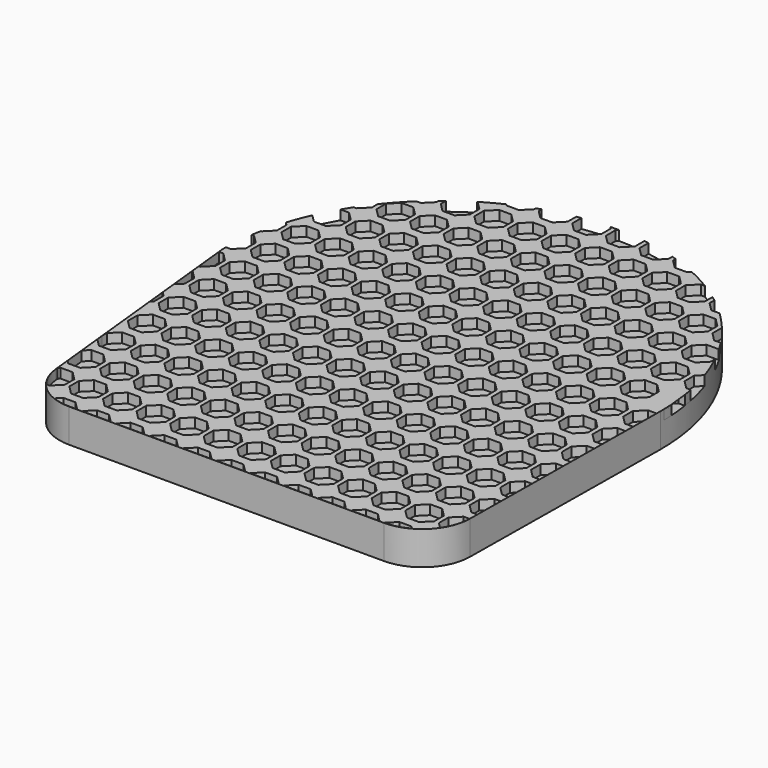
from build123d import *

# Parameters (mm, degrees)
F1_DEPTH = 6.35
F3_DEPTH = 8.89


with BuildPart() as f1:
    # F0 (on Top) → F1 (new body)
    with BuildSketch(Plane.XY):
        with BuildLine():
            ThreePointArc((-51.3827269101, -50.5349306428), (-47.2529904273, -58.6521035955), (-38.7512345327, -61.9175847043))
            Line((-38.7512345327, -61.9175847043), (44.5720515409, -61.9175847043))
            ThreePointArc((44.5720515409, -61.9175847043), (53.5004760183, -58.2493750224), (57.271210242, -49.3637636572))
            Line((57.271210242, -49.3637636572), (57.9866241348, 12.7871436998))
            ThreePointArc((57.9866241348, 12.7871436998), (0, 70.7737678347), (-57.9866241348, 12.7871436998))
            Line((-57.9866241348, 12.7871436998), (-51.3827269101, -50.5349306428))
        make_face()
        with BuildLine():
            ThreePointArc((-51.3827269101, -50.5349306428), (-47.2529904273, -58.6521035955), (-38.7512345327, -61.9175847043))
            Line((-38.7512345327, -61.9175847043), (44.5720515409, -61.9175847043))
            ThreePointArc((44.5720515409, -61.9175847043), (53.5004760183, -58.2493750224), (57.271210242, -49.3637636572))
            Line((57.271210242, -49.3637636572), (57.9866241348, 12.7871436998))
            ThreePointArc((57.9866241348, 12.7871436998), (0, 70.7737678347), (-57.9866241348, 12.7871436998))
            Line((-57.9866241348, 12.7871436998), (-51.3827269101, -50.5349306428))
        make_face()
    extrude(amount=F1_DEPTH)

    # F2 (on face) → F3 (join)
    with BuildSketch(Plane.XY):
        with BuildLine():
            Line((-56.6928987021, 14.0195400659), (-57.973526525, 14.0195400659))
            ThreePointArc((-57.973526525, 14.0195400659), (-57.9833496399, 13.4033766814), (-57.9866241348, 12.7871436998))
            Line((-57.9866241348, 12.7871436998), (-51.3827269101, -50.5349306428))
            ThreePointArc((-51.3827269101, -50.5349306428), (-47.2529904273, -58.6521035955), (-38.7512345327, -61.9175847043))
            Line((-38.7512345327, -61.9175847043), (44.5720515409, -61.9175847043))
            ThreePointArc((44.5720515409, -61.9175847043), (53.5004760183, -58.2493750224), (57.271210242, -49.3637636572))
            Line((57.271210242, -49.3637636572), (57.9866241348, 12.7871436998))
            ThreePointArc((57.9866241348, 12.7871436998), (57.9554946576, 14.6869377811), (57.8621396488, 16.5846920955))
            ThreePointArc((57.8621396488, 16.5846920955), (57.9303192963, 15.3027136717), (57.9701017166, 14.0195400659))
            Line((57.9701017166, 14.0195400659), (55.7021012975, 14.0195400659))
            Line((55.7021012975, 14.0195400659), (53.4570372671, 16.2646040963))
            Line((53.4570372671, 16.2646040963), (53.4570372671, 19.4396040962))
            Line((53.4570372671, 19.4396040962), (55.7021012975, 21.6846681264))
            Line((55.7021012975, 21.6846681264), (57.2999357559, 21.6846681264))
            ThreePointArc((57.2999357559, 21.6846681264), (57.0918487953, 22.9345265985), (56.8565025621, 24.1795400658))
            Line((56.8565025621, 24.1795400658), (55.7021012975, 24.1795400658))
            Line((55.7021012975, 24.1795400658), (53.4570372671, 26.4246040962))
            Line((53.4570372671, 26.4246040962), (53.4570372671, 29.599604096))
            Line((53.4570372671, 29.599604096), (55.0035920623, 31.1461588912))
            ThreePointArc((55.0035920623, 31.1461588912), (53.7263722858, 34.6028605014), (52.2321653279, 37.9714539685))
            Line((52.2321653279, 37.9714539685), (52.2321653279, 36.5846040959))
            Line((52.2321653279, 36.5846040959), (49.9871012975, 34.3395400657))
            Line((49.9871012975, 34.3395400657), (46.8121012975, 34.3395400657))
            Line((46.8121012975, 34.3395400657), (44.5670372672, 36.5846040961))
            Line((44.5670372672, 36.5846040961), (44.5670372672, 39.7596040959))
            Line((44.5670372672, 39.7596040959), (46.8121012975, 42.0046681262))
            Line((46.8121012975, 42.0046681262), (49.9871012975, 42.0046681262))
            Line((49.9871012975, 42.0046681262), (50.2268648648, 41.764904559))
            ThreePointArc((50.2268648648, 41.764904559), (49.4056571773, 43.1438500005), (48.5466012744, 44.4995400655))
            Line((48.5466012744, 44.4995400655), (46.8121012975, 44.4995400655))
            Line((46.8121012975, 44.4995400655), (44.5670372672, 46.744604096))
            Line((44.5670372672, 46.744604096), (44.5670372672, 49.8846876587))
            ThreePointArc((44.5670372672, 49.8846876587), (42.4078863454, 52.3348333197), (40.1142244242, 54.6595400654))
            Line((40.1142244242, 54.6595400654), (37.9221012975, 54.6595400654))
            Line((37.9221012975, 54.6595400654), (35.6770372672, 56.9046040958))
            Line((35.6770372672, 56.9046040958), (35.6770372672, 58.4992601504))
            ThreePointArc((35.6770372672, 58.4992601504), (35.0676851002, 58.9683740891), (34.452165328, 59.4293658035))
            Line((34.452165328, 59.4293658035), (34.452165328, 56.9046040957))
            Line((34.452165328, 56.9046040957), (32.2071012976, 54.6595400654))
            Line((32.2071012976, 54.6595400654), (29.0321012976, 54.6595400654))
            Line((29.0321012976, 54.6595400654), (26.7870372672, 56.9046040958))
            Line((26.7870372672, 56.9046040958), (26.7870372672, 60.0796040957))
            Line((26.7870372672, 60.0796040957), (29.0321012976, 62.324668126))
            Line((29.0321012976, 62.324668126), (30.1410393365, 62.324668126))
            ThreePointArc((30.1410393365, 62.324668126), (27.1430924041, 64.028739238), (24.0491519496, 65.5515907173))
            Line((24.0491519496, 65.5515907173), (23.3171012976, 64.8195400653))
            Line((23.3171012976, 64.8195400653), (20.1421012976, 64.8195400653))
            Line((20.1421012976, 64.8195400653), (17.8970372672, 67.0646040957))
            Line((17.8970372672, 67.0646040957), (17.8970372672, 67.9427838068))
            ThreePointArc((17.8970372672, 67.9427838068), (17.2856594564, 68.1374332719), (16.672165328, 68.3253060914))
            Line((16.672165328, 68.3253060914), (16.672165328, 67.0646040956))
            Line((16.672165328, 67.0646040956), (14.4271012976, 64.8195400653))
            Line((14.4271012976, 64.8195400653), (11.2521012976, 64.8195400653))
            Line((11.2521012976, 64.8195400653), (9.0070372673, 67.0646040957))
            Line((9.0070372673, 67.0646040957), (9.0070372673, 70.0699671133))
            ThreePointArc((9.0070372673, 70.0699671133), (8.3895462338, 70.1636553796), (7.7710819416, 70.250687482))
            Line((7.7710819416, 70.250687482), (7.7821653281, 70.2396040955))
            Line((7.7821653281, 70.2396040955), (7.7821653281, 67.0646040956))
            Line((7.7821653281, 67.0646040956), (5.5371012977, 64.8195400653))
            Line((5.5371012977, 64.8195400653), (2.3621012977, 64.8195400653))
            Line((2.3621012977, 64.8195400653), (0.1170372673, 67.0646040957))
            Line((0.1170372673, 67.0646040957), (0.1170372673, 70.2396040956))
            Line((0.1170372673, 70.2396040956), (0.6475848346, 70.7701516628))
            ThreePointArc((0.6475848346, 70.7701516628), (-0.4859914005, 70.7717312289), (-1.6193819084, 70.751151332))
            Line((-1.6193819084, 70.751151332), (-1.1078346719, 70.2396040955))
            Line((-1.1078346719, 70.2396040955), (-1.1078346719, 67.0646040956))
            Line((-1.1078346719, 67.0646040956), (-3.3528987023, 64.8195400653))
            Line((-3.3528987023, 64.8195400653), (-6.5278987023, 64.8195400653))
            Line((-6.5278987023, 64.8195400653), (-8.7729627327, 67.0646040957))
            Line((-8.7729627327, 67.0646040957), (-8.7729627327, 70.1062827674))
            ThreePointArc((-8.7729627327, 70.1062827674), (-9.3859362982, 70.00910433), (-9.9978346719, 69.905370917))
            Line((-9.9978346719, 69.905370917), (-9.9978346719, 67.0646040956))
            Line((-9.9978346719, 67.0646040956), (-12.2428987023, 64.8195400653))
            Line((-12.2428987023, 64.8195400653), (-15.4178987023, 64.8195400653))
            Line((-15.4178987023, 64.8195400653), (-17.6629627326, 67.0646040957))
            Line((-17.6629627326, 67.0646040957), (-17.6629627326, 68.0181886479))
            ThreePointArc((-17.6629627326, 68.0181886479), (-18.2765305367, 67.8181986606), (-18.8878346718, 67.611392714))
            Line((-18.8878346718, 67.611392714), (-18.8878346718, 67.0646040956))
            Line((-18.8878346718, 67.0646040956), (-21.1328987023, 64.8195400653))
            Line((-21.1328987023, 64.8195400653), (-24.3078987023, 64.8195400653))
            Line((-24.3078987023, 64.8195400653), (-24.7261217819, 65.237763145))
            ThreePointArc((-24.7261217819, 65.237763145), (-27.4722200221, 63.8530394191), (-30.1410393365, 62.324668126))
            Line((-30.1410393365, 62.324668126), (-30.0228987022, 62.324668126))
            Line((-30.0228987022, 62.324668126), (-27.7778346718, 60.0796040957))
            Line((-27.7778346718, 60.0796040957), (-27.7778346718, 56.9046040957))
            Line((-27.7778346718, 56.9046040957), (-30.0228987022, 54.6595400654))
            Line((-30.0228987022, 54.6595400654), (-33.1978987022, 54.6595400654))
            Line((-33.1978987022, 54.6595400654), (-35.4429627326, 56.9046040958))
            Line((-35.4429627326, 56.9046040958), (-35.4429627326, 58.6809882903))
            ThreePointArc((-35.4429627326, 58.6809882903), (-36.0586780378, 58.1988196953), (-36.6678346718, 57.708391223))
            Line((-36.6678346718, 57.708391223), (-36.6678346718, 56.9046040957))
            Line((-36.6678346718, 56.9046040957), (-38.9128987022, 54.6595400654))
            Line((-38.9128987022, 54.6595400654), (-40.1142244242, 54.6595400654))
            ThreePointArc((-40.1142244242, 54.6595400654), (-42.9409024355, 51.7554317887), (-45.5578346717, 48.6609820584))
            Line((-45.5578346717, 48.6609820584), (-45.5578346717, 46.7446040958))
            Line((-45.5578346717, 46.7446040958), (-47.8028987022, 44.4995400655))
            Line((-47.8028987022, 44.4995400655), (-48.5466012744, 44.4995400655))
            ThreePointArc((-48.5466012744, 44.4995400655), (-49.3329602322, 43.2618481821), (-50.0877714113, 42.0046681262))
            Line((-50.0877714113, 42.0046681262), (-47.8028987021, 42.0046681262))
            Line((-47.8028987021, 42.0046681262), (-45.5578346717, 39.7596040959))
            Line((-45.5578346717, 39.7596040959), (-45.5578346717, 36.5846040959))
            Line((-45.5578346717, 36.5846040959), (-47.8028987022, 34.3395400657))
            Line((-47.8028987022, 34.3395400657), (-50.9778987022, 34.3395400657))
            Line((-50.9778987022, 34.3395400657), (-52.9849243798, 36.3465657433))
            ThreePointArc((-52.9849243798, 36.3465657433), (-54.1977707452, 33.4038899224), (-55.2473308371, 30.3991002614))
            Line((-55.2473308371, 30.3991002614), (-54.4478346717, 29.599604096))
            Line((-54.4478346717, 29.599604096), (-54.4478346717, 26.424604096))
            Line((-54.4478346717, 26.424604096), (-56.6928987021, 24.1795400658))
            Line((-56.6928987021, 24.1795400658), (-56.8565025621, 24.1795400658))
            ThreePointArc((-56.8565025621, 24.1795400658), (-57.0918487953, 22.9345265985), (-57.2999357559, 21.6846681264))
            Line((-57.2999357559, 21.6846681264), (-56.6928987021, 21.6846681264))
            Line((-56.6928987021, 21.6846681264), (-54.4478346717, 19.4396040961))
            Line((-54.4478346717, 19.4396040961), (-54.4478346717, 16.2646040962))
            Line((-54.4478346717, 16.2646040962), (-56.6928987021, 14.0195400659))
        make_face()
        with BuildLine():
            Line((-47.8028987022, -57.1004599333), (-48.6520752311, -57.1004599333))
            ThreePointArc((-48.6520752311, -57.1004599333), (-50.4993935731, -53.9765670107), (-51.3877411835, -50.4577418415))
            Line((-51.3877411835, -50.4577418415), (-51.445592832, -49.9030260026))
            Line((-51.445592832, -49.9030260026), (-50.9778987021, -49.4353318727))
            Line((-50.9778987021, -49.4353318727), (-47.8028987021, -49.4353318727))
            Line((-47.8028987021, -49.4353318727), (-45.5578346717, -51.6803959031))
            Line((-45.5578346717, -51.6803959031), (-45.5578346717, -54.855395903))
            Line((-45.5578346717, -54.855395903), (-47.8028987022, -57.1004599333))
        make_face(mode=Mode.SUBTRACT)
        with BuildLine():
            ThreePointArc((-38.7562488062, -61.8403959029), (-41.1396590776, -61.6147438008), (-43.4383730439, -60.9458062143))
            Line((-43.4383730439, -60.9458062143), (-42.0878987022, -59.5953318726))
            Line((-42.0878987022, -59.5953318726), (-38.9128987022, -59.5953318726))
            Line((-38.9128987022, -59.5953318726), (-36.6678346718, -61.8403959029))
            Line((-36.6678346718, -61.8403959029), (-38.7562488062, -61.8403959029))
        make_face(mode=Mode.SUBTRACT)
        Polygon((-27.7778346718, -61.8403959028), (-35.4429627326, -61.8403959028), (-33.1978987022, -59.5953318726), (-30.0228987022, -59.5953318726), align=None, mode=Mode.SUBTRACT)
        Polygon((-38.9128987022, -57.1004599333), (-42.0878987022, -57.1004599333), (-44.3329627325, -54.8553959029), (-44.3329627325, -51.680395903), (-42.0878987022, -49.4353318727), (-38.9128987022, -49.4353318727), (-36.6678346718, -51.6803959031), (-36.6678346718, -54.855395903), align=None, mode=Mode.SUBTRACT)
        Polygon((-30.0228987022, -57.1004599333), (-33.1978987022, -57.1004599333), (-35.4429627326, -54.8553959029), (-35.4429627326, -51.680395903), (-33.1978987022, -49.4353318727), (-30.0228987022, -49.4353318727), (-27.7778346718, -51.6803959031), (-27.7778346718, -54.855395903), align=None, mode=Mode.SUBTRACT)
        Polygon((-47.8028987022, -46.9404599334), (-50.9778987022, -46.9404599334), (-51.8449901145, -46.073368521), (-52.4051160864, -40.7025492571), (-50.9778987021, -39.2753318728), (-47.8028987021, -39.2753318728), (-45.5578346717, -41.5203959032), (-45.5578346717, -44.6953959031), align=None, mode=Mode.SUBTRACT)
        Polygon((-47.8028987022, -36.7804599335), (-50.9778987022, -36.7804599335), (-53.0279547163, -34.7304039193), (-53.2229627325, -32.8605516672), (-53.2229627325, -31.3603959032), (-50.9778987021, -29.115331873), (-47.8028987021, -29.115331873), (-45.5578346717, -31.3603959033), (-45.5578346717, -34.5353959032), align=None, mode=Mode.SUBTRACT)
        Polygon((-38.9128987022, -46.9404599334), (-42.0878987022, -46.9404599334), (-44.3329627325, -44.695395903), (-44.3329627325, -41.5203959031), (-42.0878987022, -39.2753318728), (-38.9128987022, -39.2753318728), (-36.6678346718, -41.5203959032), (-36.6678346718, -44.6953959031), align=None, mode=Mode.SUBTRACT)
        Polygon((-30.0228987022, -46.9404599334), (-33.1978987022, -46.9404599334), (-35.4429627326, -44.695395903), (-35.4429627326, -41.5203959031), (-33.1978987022, -39.2753318728), (-30.0228987022, -39.2753318728), (-27.7778346718, -41.5203959032), (-27.7778346718, -44.6953959031), align=None, mode=Mode.SUBTRACT)
        Polygon((-38.9128987022, -36.7804599335), (-42.0878987022, -36.7804599335), (-44.3329627325, -34.5353959031), (-44.3329627325, -31.3603959032), (-42.0878987022, -29.115331873), (-38.9128987022, -29.115331873), (-36.6678346718, -31.3603959033), (-36.6678346718, -34.5353959032), align=None, mode=Mode.SUBTRACT)
        Polygon((-30.0228987022, -36.7804599335), (-33.1978987022, -36.7804599335), (-35.4429627326, -34.5353959031), (-35.4429627326, -31.3603959032), (-33.1978987022, -29.115331873), (-30.0228987022, -29.115331873), (-27.7778346718, -31.3603959033), (-27.7778346718, -34.5353959032), align=None, mode=Mode.SUBTRACT)
        Polygon((-18.8878346718, -61.8403959028), (-26.5529627326, -61.8403959028), (-24.3078987022, -59.5953318725), (-21.1328987022, -59.5953318725), align=None, mode=Mode.SUBTRACT)
        Polygon((-21.1328987023, -57.1004599333), (-24.3078987023, -57.1004599333), (-26.5529627326, -54.8553959029), (-26.5529627326, -51.680395903), (-24.3078987022, -49.4353318727), (-21.1328987022, -49.4353318727), (-18.8878346718, -51.6803959031), (-18.8878346718, -54.855395903), align=None, mode=Mode.SUBTRACT)
        Polygon((-9.9978346719, -61.8403959028), (-17.6629627326, -61.8403959028), (-15.4178987023, -59.5953318725), (-12.2428987023, -59.5953318725), align=None, mode=Mode.SUBTRACT)
        Polygon((-1.1078346719, -61.8403959028), (-8.7729627327, -61.8403959028), (-6.5278987023, -59.5953318725), (-3.3528987023, -59.5953318725), align=None, mode=Mode.SUBTRACT)
        Polygon((-12.2428987023, -57.1004599333), (-15.4178987023, -57.1004599333), (-17.6629627326, -54.8553959029), (-17.6629627326, -51.680395903), (-15.4178987023, -49.4353318727), (-12.2428987023, -49.4353318727), (-9.9978346719, -51.6803959031), (-9.9978346719, -54.855395903), align=None, mode=Mode.SUBTRACT)
        Polygon((-3.3528987023, -57.1004599333), (-6.5278987023, -57.1004599333), (-8.7729627327, -54.8553959029), (-8.7729627327, -51.680395903), (-6.5278987023, -49.4353318727), (-3.3528987023, -49.4353318727), (-1.1078346719, -51.6803959031), (-1.1078346719, -54.855395903), align=None, mode=Mode.SUBTRACT)
        Polygon((-21.1328987023, -46.9404599334), (-24.3078987023, -46.9404599334), (-26.5529627326, -44.695395903), (-26.5529627326, -41.5203959031), (-24.3078987022, -39.2753318728), (-21.1328987022, -39.2753318728), (-18.8878346718, -41.5203959032), (-18.8878346718, -44.6953959031), align=None, mode=Mode.SUBTRACT)
        Polygon((-21.1328987023, -36.7804599335), (-24.3078987023, -36.7804599335), (-26.5529627326, -34.5353959031), (-26.5529627326, -31.3603959032), (-24.3078987022, -29.115331873), (-21.1328987022, -29.115331873), (-18.8878346718, -31.3603959033), (-18.8878346718, -34.5353959032), align=None, mode=Mode.SUBTRACT)
        Polygon((-12.2428987023, -46.9404599334), (-15.4178987023, -46.9404599334), (-17.6629627326, -44.695395903), (-17.6629627326, -41.5203959031), (-15.4178987023, -39.2753318728), (-12.2428987023, -39.2753318728), (-9.9978346719, -41.5203959032), (-9.9978346719, -44.6953959031), align=None, mode=Mode.SUBTRACT)
        Polygon((-3.3528987023, -46.9404599334), (-6.5278987023, -46.9404599334), (-8.7729627327, -44.695395903), (-8.7729627327, -41.5203959031), (-6.5278987023, -39.2753318728), (-3.3528987023, -39.2753318728), (-1.1078346719, -41.5203959032), (-1.1078346719, -44.6953959031), align=None, mode=Mode.SUBTRACT)
        Polygon((-12.2428987023, -36.7804599335), (-15.4178987023, -36.7804599335), (-17.6629627326, -34.5353959031), (-17.6629627326, -31.3603959032), (-15.4178987023, -29.115331873), (-12.2428987023, -29.115331873), (-9.9978346719, -31.3603959033), (-9.9978346719, -34.5353959032), align=None, mode=Mode.SUBTRACT)
        Polygon((-3.3528987023, -36.7804599335), (-6.5278987023, -36.7804599335), (-8.7729627327, -34.5353959031), (-8.7729627327, -31.3603959032), (-6.5278987023, -29.115331873), (-3.3528987023, -29.115331873), (-1.1078346719, -31.3603959033), (-1.1078346719, -34.5353959032), align=None, mode=Mode.SUBTRACT)
        Polygon((-47.8028987022, -26.6204599336), (-50.9778987022, -26.6204599336), (-53.2229627325, -24.3753959032), (-53.2229627325, -21.2003959034), (-50.9778987021, -18.9553318731), (-47.8028987021, -18.9553318731), (-45.5578346717, -21.2003959034), (-45.5578346717, -24.3753959034), align=None, mode=Mode.SUBTRACT)
        Polygon((-55.0995132883, -14.86707452), (-55.6209442018, -9.8672863735), (-54.4478346717, -11.0403959035), (-54.4478346717, -14.2153959035), align=None, mode=Mode.SUBTRACT)
        Polygon((-47.8028987022, -16.4604599338), (-50.9778987022, -16.4604599338), (-53.2229627325, -14.2153959033), (-53.2229627325, -11.0403959035), (-50.9778987021, -8.7953318732), (-47.8028987021, -8.7953318732), (-45.5578346717, -11.0403959035), (-45.5578346717, -14.2153959035), align=None, mode=Mode.SUBTRACT)
        Polygon((-38.9128987022, -26.6204599336), (-42.0878987022, -26.6204599336), (-44.3329627325, -24.3753959032), (-44.3329627325, -21.2003959034), (-42.0878987022, -18.9553318731), (-38.9128987022, -18.9553318731), (-36.6678346718, -21.2003959034), (-36.6678346718, -24.3753959034), align=None, mode=Mode.SUBTRACT)
        Polygon((-30.0228987022, -26.6204599336), (-33.1978987022, -26.6204599336), (-35.4429627326, -24.3753959032), (-35.4429627326, -21.2003959034), (-33.1978987022, -18.9553318731), (-30.0228987022, -18.9553318731), (-27.7778346718, -21.2003959034), (-27.7778346718, -24.3753959034), align=None, mode=Mode.SUBTRACT)
        Polygon((-38.9128987022, -16.4604599338), (-42.0878987022, -16.4604599338), (-44.3329627325, -14.2153959033), (-44.3329627325, -11.0403959035), (-42.0878987022, -8.7953318732), (-38.9128987022, -8.7953318732), (-36.6678346718, -11.0403959035), (-36.6678346718, -14.2153959035), align=None, mode=Mode.SUBTRACT)
        Polygon((-30.0228987022, -16.4604599338), (-33.1978987022, -16.4604599338), (-35.4429627326, -14.2153959033), (-35.4429627326, -11.0403959035), (-33.1978987022, -8.7953318732), (-30.0228987022, -8.7953318732), (-27.7778346718, -11.0403959035), (-27.7778346718, -14.2153959035), align=None, mode=Mode.SUBTRACT)
        Polygon((-56.7923314933, 1.3646681267), (-56.6928987021, 1.3646681267), (-54.4478346717, -0.8803959036), (-54.4478346717, -4.0553959036), (-56.0590365427, -5.6665977745), align=None, mode=Mode.SUBTRACT)
        Polygon((-47.8028987022, -6.3004599339), (-50.9778987022, -6.3004599339), (-53.2229627325, -4.0553959035), (-53.2229627325, -0.8803959036), (-50.9778987021, 1.3646681267), (-47.8028987021, 1.3646681267), (-45.5578346717, -0.8803959036), (-45.5578346717, -4.0553959036), align=None, mode=Mode.SUBTRACT)
        Polygon((-38.9128987022, -6.3004599339), (-42.0878987022, -6.3004599339), (-44.3329627325, -4.0553959035), (-44.3329627325, -0.8803959036), (-42.0878987022, 1.3646681267), (-38.9128987022, 1.3646681267), (-36.6678346718, -0.8803959036), (-36.6678346718, -4.0553959036), align=None, mode=Mode.SUBTRACT)
        Polygon((-30.0228987022, -6.3004599339), (-33.1978987022, -6.3004599339), (-35.4429627326, -4.0553959035), (-35.4429627326, -0.8803959036), (-33.1978987022, 1.3646681267), (-30.0228987022, 1.3646681267), (-27.7778346718, -0.8803959036), (-27.7778346718, -4.0553959036), align=None, mode=Mode.SUBTRACT)
        Polygon((-21.1328987023, -26.6204599336), (-24.3078987023, -26.6204599336), (-26.5529627326, -24.3753959032), (-26.5529627326, -21.2003959034), (-24.3078987022, -18.9553318731), (-21.1328987022, -18.9553318731), (-18.8878346718, -21.2003959034), (-18.8878346718, -24.3753959034), align=None, mode=Mode.SUBTRACT)
        Polygon((-21.1328987023, -16.4604599338), (-24.3078987023, -16.4604599338), (-26.5529627326, -14.2153959033), (-26.5529627326, -11.0403959035), (-24.3078987022, -8.7953318732), (-21.1328987022, -8.7953318732), (-18.8878346718, -11.0403959035), (-18.8878346718, -14.2153959035), align=None, mode=Mode.SUBTRACT)
        Polygon((-12.2428987023, -26.6204599336), (-15.4178987023, -26.6204599336), (-17.6629627326, -24.3753959032), (-17.6629627326, -21.2003959034), (-15.4178987023, -18.9553318731), (-12.2428987023, -18.9553318731), (-9.9978346719, -21.2003959034), (-9.9978346719, -24.3753959034), align=None, mode=Mode.SUBTRACT)
        Polygon((-3.3528987023, -26.6204599336), (-6.5278987023, -26.6204599336), (-8.7729627327, -24.3753959032), (-8.7729627327, -21.2003959034), (-6.5278987023, -18.9553318731), (-3.3528987023, -18.9553318731), (-1.1078346719, -21.2003959034), (-1.1078346719, -24.3753959034), align=None, mode=Mode.SUBTRACT)
        Polygon((-12.2428987023, -16.4604599338), (-15.4178987023, -16.4604599338), (-17.6629627326, -14.2153959033), (-17.6629627326, -11.0403959035), (-15.4178987023, -8.7953318732), (-12.2428987023, -8.7953318732), (-9.9978346719, -11.0403959035), (-9.9978346719, -14.2153959035), align=None, mode=Mode.SUBTRACT)
        Polygon((-3.3528987023, -16.4604599338), (-6.5278987023, -16.4604599338), (-8.7729627327, -14.2153959033), (-8.7729627327, -11.0403959035), (-6.5278987023, -8.7953318732), (-3.3528987023, -8.7953318732), (-1.1078346719, -11.0403959035), (-1.1078346719, -14.2153959035), align=None, mode=Mode.SUBTRACT)
        Polygon((-21.1328987023, -6.3004599339), (-24.3078987023, -6.3004599339), (-26.5529627326, -4.0553959035), (-26.5529627326, -0.8803959036), (-24.3078987022, 1.3646681267), (-21.1328987022, 1.3646681267), (-18.8878346718, -0.8803959036), (-18.8878346718, -4.0553959036), align=None, mode=Mode.SUBTRACT)
        Polygon((-12.2428987023, -6.3004599339), (-15.4178987023, -6.3004599339), (-17.6629627326, -4.0553959035), (-17.6629627326, -0.8803959036), (-15.4178987023, 1.3646681267), (-12.2428987023, 1.3646681267), (-9.9978346719, -0.8803959036), (-9.9978346719, -4.0553959036), align=None, mode=Mode.SUBTRACT)
        Polygon((-3.3528987023, -6.3004599339), (-6.5278987023, -6.3004599339), (-8.7729627327, -4.0553959035), (-8.7729627327, -0.8803959036), (-6.5278987023, 1.3646681267), (-3.3528987023, 1.3646681267), (-1.1078346719, -0.8803959036), (-1.1078346719, -4.0553959036), align=None, mode=Mode.SUBTRACT)
        Polygon((7.7821653281, -61.8403959027), (0.1170372673, -61.8403959028), (2.3621012977, -59.5953318725), (5.5371012977, -59.5953318725), align=None, mode=Mode.SUBTRACT)
        Polygon((16.672165328, -61.8403959027), (9.0070372673, -61.8403959027), (11.2521012977, -59.5953318724), (14.4271012977, -59.5953318724), align=None, mode=Mode.SUBTRACT)
        Polygon((5.5371012977, -57.1004599333), (2.3621012977, -57.1004599333), (0.1170372673, -54.8553959029), (0.1170372673, -51.680395903), (2.3621012977, -49.4353318727), (5.5371012977, -49.4353318727), (7.7821653281, -51.6803959031), (7.7821653281, -54.855395903), align=None, mode=Mode.SUBTRACT)
        Polygon((14.4271012976, -57.1004599333), (11.2521012976, -57.1004599333), (9.0070372673, -54.8553959029), (9.0070372673, -51.680395903), (11.2521012977, -49.4353318727), (14.4271012977, -49.4353318727), (16.672165328, -51.6803959031), (16.672165328, -54.855395903), align=None, mode=Mode.SUBTRACT)
        Polygon((25.562165328, -61.8403959027), (17.8970372672, -61.8403959027), (20.1421012976, -59.5953318724), (23.3171012976, -59.5953318724), align=None, mode=Mode.SUBTRACT)
        Polygon((23.3171012976, -57.1004599333), (20.1421012976, -57.1004599333), (17.8970372672, -54.8553959029), (17.8970372672, -51.680395903), (20.1421012976, -49.4353318727), (23.3171012976, -49.4353318727), (25.562165328, -51.6803959031), (25.562165328, -54.855395903), align=None, mode=Mode.SUBTRACT)
        Polygon((5.5371012977, -46.9404599334), (2.3621012977, -46.9404599334), (0.1170372673, -44.695395903), (0.1170372673, -41.5203959031), (2.3621012977, -39.2753318728), (5.5371012977, -39.2753318728), (7.7821653281, -41.5203959032), (7.7821653281, -44.6953959031), align=None, mode=Mode.SUBTRACT)
        Polygon((14.4271012976, -46.9404599334), (11.2521012976, -46.9404599334), (9.0070372673, -44.695395903), (9.0070372673, -41.5203959031), (11.2521012977, -39.2753318728), (14.4271012977, -39.2753318728), (16.672165328, -41.5203959032), (16.672165328, -44.6953959031), align=None, mode=Mode.SUBTRACT)
        Polygon((5.5371012977, -36.7804599335), (2.3621012977, -36.7804599335), (0.1170372673, -34.5353959031), (0.1170372673, -31.3603959032), (2.3621012977, -29.115331873), (5.5371012977, -29.115331873), (7.7821653281, -31.3603959033), (7.7821653281, -34.5353959032), align=None, mode=Mode.SUBTRACT)
        Polygon((14.4271012976, -36.7804599335), (11.2521012976, -36.7804599335), (9.0070372673, -34.5353959031), (9.0070372673, -31.3603959032), (11.2521012977, -29.115331873), (14.4271012977, -29.115331873), (16.672165328, -31.3603959033), (16.672165328, -34.5353959032), align=None, mode=Mode.SUBTRACT)
        Polygon((23.3171012976, -46.9404599334), (20.1421012976, -46.9404599334), (17.8970372672, -44.695395903), (17.8970372672, -41.5203959031), (20.1421012976, -39.2753318728), (23.3171012976, -39.2753318728), (25.562165328, -41.5203959032), (25.562165328, -44.6953959031), align=None, mode=Mode.SUBTRACT)
        Polygon((23.3171012976, -36.7804599335), (20.1421012976, -36.7804599335), (17.8970372672, -34.5353959031), (17.8970372672, -31.3603959032), (20.1421012976, -29.115331873), (23.3171012976, -29.115331873), (25.562165328, -31.3603959033), (25.562165328, -34.5353959032), align=None, mode=Mode.SUBTRACT)
        Polygon((34.452165328, -61.8403959027), (26.7870372672, -61.8403959027), (29.0321012976, -59.5953318724), (32.2071012976, -59.5953318724), align=None, mode=Mode.SUBTRACT)
        Polygon((43.3421653279, -61.8403959026), (35.6770372672, -61.8403959027), (37.9221012976, -59.5953318724), (41.0971012976, -59.5953318724), align=None, mode=Mode.SUBTRACT)
        Polygon((32.2071012976, -57.1004599333), (29.0321012976, -57.1004599333), (26.7870372672, -54.8553959029), (26.7870372672, -51.680395903), (29.0321012976, -49.4353318727), (32.2071012976, -49.4353318727), (34.452165328, -51.6803959031), (34.452165328, -54.855395903), align=None, mode=Mode.SUBTRACT)
        Polygon((41.0971012975, -57.1004599333), (37.9221012975, -57.1004599333), (35.6770372672, -54.8553959029), (35.6770372672, -51.680395903), (37.9221012976, -49.4353318727), (41.0971012976, -49.4353318727), (43.3421653279, -51.6803959031), (43.3421653279, -54.855395903), align=None, mode=Mode.SUBTRACT)
        with BuildLine():
            ThreePointArc((50.6697820462, -60.2780126212), (47.7168204088, -61.4436014267), (44.5670372672, -61.8403959029))
            Line((44.5670372672, -61.8403959029), (46.8121012975, -59.5953318726))
            Line((46.8121012975, -59.5953318726), (49.9871012975, -59.5953318726))
            Line((49.9871012975, -59.5953318726), (50.6697820462, -60.2780126212))
        make_face(mode=Mode.SUBTRACT)
        Polygon((49.9871012975, -57.1004599333), (46.8121012975, -57.1004599333), (44.5670372672, -54.8553959029), (44.5670372672, -51.680395903), (46.8121012975, -49.4353318727), (49.9871012975, -49.4353318727), (52.2321653279, -51.6803959031), (52.2321653279, -54.855395903), align=None, mode=Mode.SUBTRACT)
        with BuildLine():
            Line((53.4570372671, -54.8553959029), (53.4570372671, -51.680395903))
            Line((53.4570372671, -51.680395903), (55.7021012975, -49.4353318727))
            Line((55.7021012975, -49.4353318727), (57.2636121115, -49.4353318727))
            ThreePointArc((57.2636121115, -49.4353318727), (56.6403539331, -53.0805766967), (54.9933631932, -56.391721829))
            Line((54.9933631932, -56.391721829), (53.4570372671, -54.8553959029))
        make_face(mode=Mode.SUBTRACT)
        Polygon((32.2071012976, -46.9404599334), (29.0321012976, -46.9404599334), (26.7870372672, -44.695395903), (26.7870372672, -41.5203959031), (29.0321012976, -39.2753318728), (32.2071012976, -39.2753318728), (34.452165328, -41.5203959032), (34.452165328, -44.6953959031), align=None, mode=Mode.SUBTRACT)
        Polygon((41.0971012975, -46.9404599334), (37.9221012975, -46.9404599334), (35.6770372672, -44.695395903), (35.6770372672, -41.5203959031), (37.9221012976, -39.2753318728), (41.0971012976, -39.2753318728), (43.3421653279, -41.5203959032), (43.3421653279, -44.6953959031), align=None, mode=Mode.SUBTRACT)
        Polygon((32.2071012976, -36.7804599335), (29.0321012976, -36.7804599335), (26.7870372672, -34.5353959031), (26.7870372672, -31.3603959032), (29.0321012976, -29.115331873), (32.2071012976, -29.115331873), (34.452165328, -31.3603959033), (34.452165328, -34.5353959032), align=None, mode=Mode.SUBTRACT)
        Polygon((41.0971012975, -36.7804599335), (37.9221012975, -36.7804599335), (35.6770372672, -34.5353959031), (35.6770372672, -31.3603959032), (37.9221012976, -29.115331873), (41.0971012976, -29.115331873), (43.3421653279, -31.3603959033), (43.3421653279, -34.5353959032), align=None, mode=Mode.SUBTRACT)
        Polygon((49.9871012975, -46.9404599334), (46.8121012975, -46.9404599334), (44.5670372672, -44.695395903), (44.5670372672, -41.5203959031), (46.8121012975, -39.2753318728), (49.9871012975, -39.2753318728), (52.2321653279, -41.5203959032), (52.2321653279, -44.6953959031), align=None, mode=Mode.SUBTRACT)
        Polygon((57.2932019011, -46.9404599334), (55.7021012975, -46.9404599334), (53.4570372671, -44.695395903), (53.4570372671, -41.5203959031), (55.7021012975, -39.2753318728), (57.3814345487, -39.2753318728), align=None, mode=Mode.SUBTRACT)
        Polygon((49.9871012975, -36.7804599335), (46.8121012975, -36.7804599335), (44.5670372672, -34.5353959031), (44.5670372672, -31.3603959032), (46.8121012975, -29.115331873), (49.9871012975, -29.115331873), (52.2321653279, -31.3603959033), (52.2321653279, -34.5353959032), align=None, mode=Mode.SUBTRACT)
        Polygon((57.4101528108, -36.7804599335), (55.7021012975, -36.7804599335), (53.4570372671, -34.5353959031), (53.4570372671, -31.3603959032), (55.7021012975, -29.115331873), (57.4983854584, -29.115331873), align=None, mode=Mode.SUBTRACT)
        Polygon((5.5371012977, -26.6204599336), (2.3621012977, -26.6204599336), (0.1170372673, -24.3753959032), (0.1170372673, -21.2003959034), (2.3621012977, -18.9553318731), (5.5371012977, -18.9553318731), (7.7821653281, -21.2003959034), (7.7821653281, -24.3753959034), align=None, mode=Mode.SUBTRACT)
        Polygon((14.4271012976, -26.6204599336), (11.2521012976, -26.6204599336), (9.0070372673, -24.3753959032), (9.0070372673, -21.2003959034), (11.2521012977, -18.9553318731), (14.4271012977, -18.9553318731), (16.672165328, -21.2003959034), (16.672165328, -24.3753959034), align=None, mode=Mode.SUBTRACT)
        Polygon((5.5371012977, -16.4604599338), (2.3621012977, -16.4604599338), (0.1170372673, -14.2153959033), (0.1170372673, -11.0403959035), (2.3621012977, -8.7953318732), (5.5371012977, -8.7953318732), (7.7821653281, -11.0403959035), (7.7821653281, -14.2153959035), align=None, mode=Mode.SUBTRACT)
        Polygon((14.4271012976, -16.4604599338), (11.2521012976, -16.4604599338), (9.0070372673, -14.2153959033), (9.0070372673, -11.0403959035), (11.2521012977, -8.7953318732), (14.4271012977, -8.7953318732), (16.672165328, -11.0403959035), (16.672165328, -14.2153959035), align=None, mode=Mode.SUBTRACT)
        Polygon((23.3171012976, -26.6204599336), (20.1421012976, -26.6204599336), (17.8970372672, -24.3753959032), (17.8970372672, -21.2003959034), (20.1421012976, -18.9553318731), (23.3171012976, -18.9553318731), (25.562165328, -21.2003959034), (25.562165328, -24.3753959034), align=None, mode=Mode.SUBTRACT)
        Polygon((23.3171012976, -16.4604599338), (20.1421012976, -16.4604599338), (17.8970372672, -14.2153959033), (17.8970372672, -11.0403959035), (20.1421012976, -8.7953318732), (23.3171012976, -8.7953318732), (25.562165328, -11.0403959035), (25.562165328, -14.2153959035), align=None, mode=Mode.SUBTRACT)
        Polygon((5.5371012977, -6.3004599339), (2.3621012977, -6.3004599339), (0.1170372673, -4.0553959035), (0.1170372673, -0.8803959036), (2.3621012977, 1.3646681267), (5.5371012977, 1.3646681267), (7.7821653281, -0.8803959036), (7.7821653281, -4.0553959036), align=None, mode=Mode.SUBTRACT)
        Polygon((14.4271012976, -6.3004599339), (11.2521012976, -6.3004599339), (9.0070372673, -4.0553959035), (9.0070372673, -0.8803959036), (11.2521012977, 1.3646681267), (14.4271012977, 1.3646681267), (16.672165328, -0.8803959036), (16.672165328, -4.0553959036), align=None, mode=Mode.SUBTRACT)
        Polygon((23.3171012976, -6.3004599339), (20.1421012976, -6.3004599339), (17.8970372672, -4.0553959035), (17.8970372672, -0.8803959036), (20.1421012976, 1.3646681267), (23.3171012976, 1.3646681267), (25.562165328, -0.8803959036), (25.562165328, -4.0553959036), align=None, mode=Mode.SUBTRACT)
        Polygon((32.2071012976, -26.6204599336), (29.0321012976, -26.6204599336), (26.7870372672, -24.3753959032), (26.7870372672, -21.2003959034), (29.0321012976, -18.9553318731), (32.2071012976, -18.9553318731), (34.452165328, -21.2003959034), (34.452165328, -24.3753959034), align=None, mode=Mode.SUBTRACT)
        Polygon((41.0971012975, -26.6204599336), (37.9221012975, -26.6204599336), (35.6770372672, -24.3753959032), (35.6770372672, -21.2003959034), (37.9221012976, -18.9553318731), (41.0971012976, -18.9553318731), (43.3421653279, -21.2003959034), (43.3421653279, -24.3753959034), align=None, mode=Mode.SUBTRACT)
        Polygon((32.2071012976, -16.4604599338), (29.0321012976, -16.4604599338), (26.7870372672, -14.2153959033), (26.7870372672, -11.0403959035), (29.0321012976, -8.7953318732), (32.2071012976, -8.7953318732), (34.452165328, -11.0403959035), (34.452165328, -14.2153959035), align=None, mode=Mode.SUBTRACT)
        Polygon((41.0971012975, -16.4604599338), (37.9221012975, -16.4604599338), (35.6770372672, -14.2153959033), (35.6770372672, -11.0403959035), (37.9221012976, -8.7953318732), (41.0971012976, -8.7953318732), (43.3421653279, -11.0403959035), (43.3421653279, -14.2153959035), align=None, mode=Mode.SUBTRACT)
        Polygon((49.9871012975, -26.6204599336), (46.8121012975, -26.6204599336), (44.5670372672, -24.3753959032), (44.5670372672, -21.2003959034), (46.8121012975, -18.9553318731), (49.9871012975, -18.9553318731), (52.2321653279, -21.2003959034), (52.2321653279, -24.3753959034), align=None, mode=Mode.SUBTRACT)
        Polygon((57.5271037205, -26.6204599336), (55.7021012975, -26.6204599336), (53.4570372671, -24.3753959032), (53.4570372671, -21.2003959034), (55.7021012975, -18.9553318731), (57.615336368, -18.9553318731), align=None, mode=Mode.SUBTRACT)
        Polygon((49.9871012975, -16.4604599338), (46.8121012975, -16.4604599338), (44.5670372672, -14.2153959033), (44.5670372672, -11.0403959035), (46.8121012975, -8.7953318732), (49.9871012975, -8.7953318732), (52.2321653279, -11.0403959035), (52.2321653279, -14.2153959035), align=None, mode=Mode.SUBTRACT)
        Polygon((57.6440546301, -16.4604599338), (55.7021012975, -16.4604599338), (53.4570372671, -14.2153959033), (53.4570372671, -11.0403959035), (55.7021012975, -8.7953318732), (57.7322872777, -8.7953318732), align=None, mode=Mode.SUBTRACT)
        Polygon((32.2071012976, -6.3004599339), (29.0321012976, -6.3004599339), (26.7870372672, -4.0553959035), (26.7870372672, -0.8803959036), (29.0321012976, 1.3646681267), (32.2071012976, 1.3646681267), (34.452165328, -0.8803959036), (34.452165328, -4.0553959036), align=None, mode=Mode.SUBTRACT)
        Polygon((41.0971012975, -6.3004599339), (37.9221012975, -6.3004599339), (35.6770372672, -4.0553959035), (35.6770372672, -0.8803959036), (37.9221012976, 1.3646681267), (41.0971012976, 1.3646681267), (43.3421653279, -0.8803959036), (43.3421653279, -4.0553959036), align=None, mode=Mode.SUBTRACT)
        Polygon((49.9871012975, -6.3004599339), (46.8121012975, -6.3004599339), (44.5670372672, -4.0553959035), (44.5670372672, -0.8803959036), (46.8121012975, 1.3646681267), (49.9871012975, 1.3646681267), (52.2321653279, -0.8803959036), (52.2321653279, -4.0553959036), align=None, mode=Mode.SUBTRACT)
        Polygon((57.8492381873, 1.3646681267), (57.7610055398, -6.3004599339), (55.7021012975, -6.3004599339), (53.4570372671, -4.0553959035), (53.4570372671, -0.8803959036), (55.7021012975, 1.3646681267), align=None, mode=Mode.SUBTRACT)
        Polygon((-56.6928987021, 3.859540066), (-57.0525231886, 3.859540066), (-57.8519240051, 11.5246681266), (-56.6928987021, 11.5246681266), (-54.4478346717, 9.2796040962), (-54.4478346717, 6.1046040963), align=None, mode=Mode.SUBTRACT)
        Polygon((-47.8028987022, 3.859540066), (-50.9778987022, 3.859540066), (-53.2229627325, 6.1046040964), (-53.2229627325, 9.2796040963), (-50.9778987021, 11.5246681266), (-47.8028987021, 11.5246681266), (-45.5578346717, 9.2796040962), (-45.5578346717, 6.1046040963), align=None, mode=Mode.SUBTRACT)
        Polygon((-47.8028987022, 14.0195400659), (-50.9778987022, 14.0195400659), (-53.2229627325, 16.2646040963), (-53.2229627325, 19.4396040962), (-50.9778987021, 21.6846681264), (-47.8028987021, 21.6846681264), (-45.5578346717, 19.4396040961), (-45.5578346717, 16.2646040962), align=None, mode=Mode.SUBTRACT)
        Polygon((-38.9128987022, 3.859540066), (-42.0878987022, 3.859540066), (-44.3329627325, 6.1046040964), (-44.3329627325, 9.2796040963), (-42.0878987022, 11.5246681266), (-38.9128987022, 11.5246681266), (-36.6678346718, 9.2796040962), (-36.6678346718, 6.1046040963), align=None, mode=Mode.SUBTRACT)
        Polygon((-30.0228987022, 3.859540066), (-33.1978987022, 3.859540066), (-35.4429627326, 6.1046040964), (-35.4429627326, 9.2796040963), (-33.1978987022, 11.5246681266), (-30.0228987022, 11.5246681266), (-27.7778346718, 9.2796040962), (-27.7778346718, 6.1046040963), align=None, mode=Mode.SUBTRACT)
        Polygon((-38.9128987022, 14.0195400659), (-42.0878987022, 14.0195400659), (-44.3329627325, 16.2646040963), (-44.3329627325, 19.4396040962), (-42.0878987022, 21.6846681264), (-38.9128987022, 21.6846681264), (-36.6678346718, 19.4396040961), (-36.6678346718, 16.2646040962), align=None, mode=Mode.SUBTRACT)
        Polygon((-30.0228987022, 14.0195400659), (-33.1978987022, 14.0195400659), (-35.4429627326, 16.2646040963), (-35.4429627326, 19.4396040962), (-33.1978987022, 21.6846681264), (-30.0228987022, 21.6846681264), (-27.7778346718, 19.4396040961), (-27.7778346718, 16.2646040962), align=None, mode=Mode.SUBTRACT)
        Polygon((-47.8028987022, 24.1795400658), (-50.9778987022, 24.1795400658), (-53.2229627325, 26.4246040962), (-53.2229627325, 29.599604096), (-50.9778987021, 31.8446681263), (-47.8028987021, 31.8446681263), (-45.5578346717, 29.599604096), (-45.5578346717, 26.424604096), align=None, mode=Mode.SUBTRACT)
        Polygon((-38.9128987022, 24.1795400658), (-42.0878987022, 24.1795400658), (-44.3329627325, 26.4246040962), (-44.3329627325, 29.599604096), (-42.0878987022, 31.8446681263), (-38.9128987022, 31.8446681263), (-36.6678346718, 29.599604096), (-36.6678346718, 26.424604096), align=None, mode=Mode.SUBTRACT)
        Polygon((-30.0228987022, 24.1795400658), (-33.1978987022, 24.1795400658), (-35.4429627326, 26.4246040962), (-35.4429627326, 29.599604096), (-33.1978987022, 31.8446681263), (-30.0228987022, 31.8446681263), (-27.7778346718, 29.599604096), (-27.7778346718, 26.424604096), align=None, mode=Mode.SUBTRACT)
        Polygon((-21.1328987023, 3.859540066), (-24.3078987023, 3.859540066), (-26.5529627326, 6.1046040964), (-26.5529627326, 9.2796040963), (-24.3078987022, 11.5246681266), (-21.1328987022, 11.5246681266), (-18.8878346718, 9.2796040962), (-18.8878346718, 6.1046040963), align=None, mode=Mode.SUBTRACT)
        Polygon((-21.1328987023, 14.0195400659), (-24.3078987023, 14.0195400659), (-26.5529627326, 16.2646040963), (-26.5529627326, 19.4396040962), (-24.3078987022, 21.6846681264), (-21.1328987022, 21.6846681264), (-18.8878346718, 19.4396040961), (-18.8878346718, 16.2646040962), align=None, mode=Mode.SUBTRACT)
        Polygon((-12.2428987023, 3.859540066), (-15.4178987023, 3.859540066), (-17.6629627326, 6.1046040964), (-17.6629627326, 9.2796040963), (-15.4178987023, 11.5246681266), (-12.2428987023, 11.5246681266), (-9.9978346719, 9.2796040962), (-9.9978346719, 6.1046040963), align=None, mode=Mode.SUBTRACT)
        Polygon((-3.3528987023, 3.859540066), (-6.5278987023, 3.859540066), (-8.7729627327, 6.1046040964), (-8.7729627327, 9.2796040963), (-6.5278987023, 11.5246681266), (-3.3528987023, 11.5246681266), (-1.1078346719, 9.2796040962), (-1.1078346719, 6.1046040963), align=None, mode=Mode.SUBTRACT)
        Polygon((-12.2428987023, 14.0195400659), (-15.4178987023, 14.0195400659), (-17.6629627326, 16.2646040963), (-17.6629627326, 19.4396040962), (-15.4178987023, 21.6846681264), (-12.2428987023, 21.6846681264), (-9.9978346719, 19.4396040961), (-9.9978346719, 16.2646040962), align=None, mode=Mode.SUBTRACT)
        Polygon((-3.3528987023, 14.0195400659), (-6.5278987023, 14.0195400659), (-8.7729627327, 16.2646040963), (-8.7729627327, 19.4396040962), (-6.5278987023, 21.6846681264), (-3.3528987023, 21.6846681264), (-1.1078346719, 19.4396040961), (-1.1078346719, 16.2646040962), align=None, mode=Mode.SUBTRACT)
        Polygon((-21.1328987023, 24.1795400658), (-24.3078987023, 24.1795400658), (-26.5529627326, 26.4246040962), (-26.5529627326, 29.599604096), (-24.3078987022, 31.8446681263), (-21.1328987022, 31.8446681263), (-18.8878346718, 29.599604096), (-18.8878346718, 26.424604096), align=None, mode=Mode.SUBTRACT)
        Polygon((-12.2428987023, 24.1795400658), (-15.4178987023, 24.1795400658), (-17.6629627326, 26.4246040962), (-17.6629627326, 29.599604096), (-15.4178987023, 31.8446681263), (-12.2428987023, 31.8446681263), (-9.9978346719, 29.599604096), (-9.9978346719, 26.424604096), align=None, mode=Mode.SUBTRACT)
        Polygon((-3.3528987023, 24.1795400658), (-6.5278987023, 24.1795400658), (-8.7729627327, 26.4246040962), (-8.7729627327, 29.599604096), (-6.5278987023, 31.8446681263), (-3.3528987023, 31.8446681263), (-1.1078346719, 29.599604096), (-1.1078346719, 26.424604096), align=None, mode=Mode.SUBTRACT)
        Polygon((-38.9128987022, 34.3395400657), (-42.0878987022, 34.3395400657), (-44.3329627325, 36.5846040961), (-44.3329627325, 39.7596040959), (-42.0878987022, 42.0046681262), (-38.9128987022, 42.0046681262), (-36.6678346718, 39.7596040959), (-36.6678346718, 36.5846040959), align=None, mode=Mode.SUBTRACT)
        Polygon((-30.0228987022, 34.3395400657), (-33.1978987022, 34.3395400657), (-35.4429627326, 36.5846040961), (-35.4429627326, 39.7596040959), (-33.1978987022, 42.0046681262), (-30.0228987022, 42.0046681262), (-27.7778346718, 39.7596040959), (-27.7778346718, 36.5846040959), align=None, mode=Mode.SUBTRACT)
        Polygon((-38.9128987022, 44.4995400655), (-42.0878987022, 44.4995400655), (-44.3329627325, 46.744604096), (-44.3329627325, 49.9196040958), (-42.0878987022, 52.1646681261), (-38.9128987022, 52.1646681261), (-36.6678346718, 49.9196040958), (-36.6678346718, 46.7446040958), align=None, mode=Mode.SUBTRACT)
        Polygon((-30.0228987022, 44.4995400655), (-33.1978987022, 44.4995400655), (-35.4429627326, 46.744604096), (-35.4429627326, 49.9196040958), (-33.1978987022, 52.1646681261), (-30.0228987022, 52.1646681261), (-27.7778346718, 49.9196040958), (-27.7778346718, 46.7446040958), align=None, mode=Mode.SUBTRACT)
        Polygon((-21.1328987023, 34.3395400657), (-24.3078987023, 34.3395400657), (-26.5529627326, 36.5846040961), (-26.5529627326, 39.7596040959), (-24.3078987022, 42.0046681262), (-21.1328987022, 42.0046681262), (-18.8878346718, 39.7596040959), (-18.8878346718, 36.5846040959), align=None, mode=Mode.SUBTRACT)
        Polygon((-21.1328987023, 44.4995400655), (-24.3078987023, 44.4995400655), (-26.5529627326, 46.744604096), (-26.5529627326, 49.9196040958), (-24.3078987022, 52.1646681261), (-21.1328987022, 52.1646681261), (-18.8878346718, 49.9196040958), (-18.8878346718, 46.7446040958), align=None, mode=Mode.SUBTRACT)
        Polygon((-12.2428987023, 34.3395400657), (-15.4178987023, 34.3395400657), (-17.6629627326, 36.5846040961), (-17.6629627326, 39.7596040959), (-15.4178987023, 42.0046681262), (-12.2428987023, 42.0046681262), (-9.9978346719, 39.7596040959), (-9.9978346719, 36.5846040959), align=None, mode=Mode.SUBTRACT)
        Polygon((-3.3528987023, 34.3395400657), (-6.5278987023, 34.3395400657), (-8.7729627327, 36.5846040961), (-8.7729627327, 39.7596040959), (-6.5278987023, 42.0046681262), (-3.3528987023, 42.0046681262), (-1.1078346719, 39.7596040959), (-1.1078346719, 36.5846040959), align=None, mode=Mode.SUBTRACT)
        Polygon((-12.2428987023, 44.4995400655), (-15.4178987023, 44.4995400655), (-17.6629627326, 46.744604096), (-17.6629627326, 49.9196040958), (-15.4178987023, 52.1646681261), (-12.2428987023, 52.1646681261), (-9.9978346719, 49.9196040958), (-9.9978346719, 46.7446040958), align=None, mode=Mode.SUBTRACT)
        Polygon((-3.3528987023, 44.4995400655), (-6.5278987023, 44.4995400655), (-8.7729627327, 46.744604096), (-8.7729627327, 49.9196040958), (-6.5278987023, 52.1646681261), (-3.3528987023, 52.1646681261), (-1.1078346719, 49.9196040958), (-1.1078346719, 46.7446040958), align=None, mode=Mode.SUBTRACT)
        Polygon((-21.1328987023, 54.6595400654), (-24.3078987023, 54.6595400654), (-26.5529627326, 56.9046040958), (-26.5529627326, 60.0796040957), (-24.3078987022, 62.324668126), (-21.1328987022, 62.324668126), (-18.8878346718, 60.0796040957), (-18.8878346718, 56.9046040957), align=None, mode=Mode.SUBTRACT)
        Polygon((-12.2428987023, 54.6595400654), (-15.4178987023, 54.6595400654), (-17.6629627326, 56.9046040958), (-17.6629627326, 60.0796040957), (-15.4178987023, 62.324668126), (-12.2428987023, 62.324668126), (-9.9978346719, 60.0796040957), (-9.9978346719, 56.9046040957), align=None, mode=Mode.SUBTRACT)
        Polygon((-3.3528987023, 54.6595400654), (-6.5278987023, 54.6595400654), (-8.7729627327, 56.9046040958), (-8.7729627327, 60.0796040957), (-6.5278987023, 62.324668126), (-3.3528987023, 62.324668126), (-1.1078346719, 60.0796040957), (-1.1078346719, 56.9046040957), align=None, mode=Mode.SUBTRACT)
        Polygon((5.5371012977, 3.859540066), (2.3621012977, 3.859540066), (0.1170372673, 6.1046040964), (0.1170372673, 9.2796040963), (2.3621012977, 11.5246681266), (5.5371012977, 11.5246681266), (7.7821653281, 9.2796040962), (7.7821653281, 6.1046040963), align=None, mode=Mode.SUBTRACT)
        Polygon((14.4271012976, 3.859540066), (11.2521012976, 3.859540066), (9.0070372673, 6.1046040964), (9.0070372673, 9.2796040963), (11.2521012977, 11.5246681266), (14.4271012977, 11.5246681266), (16.672165328, 9.2796040962), (16.672165328, 6.1046040963), align=None, mode=Mode.SUBTRACT)
        Polygon((5.5371012977, 14.0195400659), (2.3621012977, 14.0195400659), (0.1170372673, 16.2646040963), (0.1170372673, 19.4396040962), (2.3621012977, 21.6846681264), (5.5371012977, 21.6846681264), (7.7821653281, 19.4396040961), (7.7821653281, 16.2646040962), align=None, mode=Mode.SUBTRACT)
        Polygon((14.4271012976, 14.0195400659), (11.2521012976, 14.0195400659), (9.0070372673, 16.2646040963), (9.0070372673, 19.4396040962), (11.2521012977, 21.6846681264), (14.4271012977, 21.6846681264), (16.672165328, 19.4396040961), (16.672165328, 16.2646040962), align=None, mode=Mode.SUBTRACT)
        Polygon((23.3171012976, 3.859540066), (20.1421012976, 3.859540066), (17.8970372672, 6.1046040964), (17.8970372672, 9.2796040963), (20.1421012976, 11.5246681266), (23.3171012976, 11.5246681266), (25.562165328, 9.2796040962), (25.562165328, 6.1046040963), align=None, mode=Mode.SUBTRACT)
        Polygon((23.3171012976, 14.0195400659), (20.1421012976, 14.0195400659), (17.8970372672, 16.2646040963), (17.8970372672, 19.4396040962), (20.1421012976, 21.6846681264), (23.3171012976, 21.6846681264), (25.562165328, 19.4396040961), (25.562165328, 16.2646040962), align=None, mode=Mode.SUBTRACT)
        Polygon((5.5371012977, 24.1795400658), (2.3621012977, 24.1795400658), (0.1170372673, 26.4246040962), (0.1170372673, 29.599604096), (2.3621012977, 31.8446681263), (5.5371012977, 31.8446681263), (7.7821653281, 29.599604096), (7.7821653281, 26.424604096), align=None, mode=Mode.SUBTRACT)
        Polygon((14.4271012976, 24.1795400658), (11.2521012976, 24.1795400658), (9.0070372673, 26.4246040962), (9.0070372673, 29.599604096), (11.2521012977, 31.8446681263), (14.4271012977, 31.8446681263), (16.672165328, 29.599604096), (16.672165328, 26.424604096), align=None, mode=Mode.SUBTRACT)
        Polygon((23.3171012976, 24.1795400658), (20.1421012976, 24.1795400658), (17.8970372672, 26.4246040962), (17.8970372672, 29.599604096), (20.1421012976, 31.8446681263), (23.3171012976, 31.8446681263), (25.562165328, 29.599604096), (25.562165328, 26.424604096), align=None, mode=Mode.SUBTRACT)
        Polygon((32.2071012976, 3.859540066), (29.0321012976, 3.859540066), (26.7870372672, 6.1046040964), (26.7870372672, 9.2796040963), (29.0321012976, 11.5246681266), (32.2071012976, 11.5246681266), (34.452165328, 9.2796040962), (34.452165328, 6.1046040963), align=None, mode=Mode.SUBTRACT)
        Polygon((41.0971012975, 3.859540066), (37.9221012975, 3.859540066), (35.6770372672, 6.1046040964), (35.6770372672, 9.2796040963), (37.9221012976, 11.5246681266), (41.0971012976, 11.5246681266), (43.3421653279, 9.2796040962), (43.3421653279, 6.1046040963), align=None, mode=Mode.SUBTRACT)
        Polygon((32.2071012976, 14.0195400659), (29.0321012976, 14.0195400659), (26.7870372672, 16.2646040963), (26.7870372672, 19.4396040962), (29.0321012976, 21.6846681264), (32.2071012976, 21.6846681264), (34.452165328, 19.4396040961), (34.452165328, 16.2646040962), align=None, mode=Mode.SUBTRACT)
        Polygon((41.0971012975, 14.0195400659), (37.9221012975, 14.0195400659), (35.6770372672, 16.2646040963), (35.6770372672, 19.4396040962), (37.9221012976, 21.6846681264), (41.0971012976, 21.6846681264), (43.3421653279, 19.4396040961), (43.3421653279, 16.2646040962), align=None, mode=Mode.SUBTRACT)
        Polygon((49.9871012975, 3.859540066), (46.8121012975, 3.859540066), (44.5670372672, 6.1046040964), (44.5670372672, 9.2796040963), (46.8121012975, 11.5246681266), (49.9871012975, 11.5246681266), (52.2321653279, 9.2796040962), (52.2321653279, 6.1046040963), align=None, mode=Mode.SUBTRACT)
        Polygon((57.8779564494, 3.859540066), (55.7021012975, 3.859540066), (53.4570372671, 6.1046040964), (53.4570372671, 9.2796040963), (55.7021012975, 11.5246681266), (57.966189097, 11.5246681266), align=None, mode=Mode.SUBTRACT)
        Polygon((49.9871012975, 14.0195400659), (46.8121012975, 14.0195400659), (44.5670372672, 16.2646040963), (44.5670372672, 19.4396040962), (46.8121012975, 21.6846681264), (49.9871012975, 21.6846681264), (52.2321653279, 19.4396040961), (52.2321653279, 16.2646040962), align=None, mode=Mode.SUBTRACT)
        Polygon((32.2071012976, 24.1795400658), (29.0321012976, 24.1795400658), (26.7870372672, 26.4246040962), (26.7870372672, 29.599604096), (29.0321012976, 31.8446681263), (32.2071012976, 31.8446681263), (34.452165328, 29.599604096), (34.452165328, 26.424604096), align=None, mode=Mode.SUBTRACT)
        Polygon((41.0971012975, 24.1795400658), (37.9221012975, 24.1795400658), (35.6770372672, 26.4246040962), (35.6770372672, 29.599604096), (37.9221012976, 31.8446681263), (41.0971012976, 31.8446681263), (43.3421653279, 29.599604096), (43.3421653279, 26.424604096), align=None, mode=Mode.SUBTRACT)
        Polygon((49.9871012975, 24.1795400658), (46.8121012975, 24.1795400658), (44.5670372672, 26.4246040962), (44.5670372672, 29.599604096), (46.8121012975, 31.8446681263), (49.9871012975, 31.8446681263), (52.2321653279, 29.599604096), (52.2321653279, 26.424604096), align=None, mode=Mode.SUBTRACT)
        Polygon((5.5371012977, 34.3395400657), (2.3621012977, 34.3395400657), (0.1170372673, 36.5846040961), (0.1170372673, 39.7596040959), (2.3621012977, 42.0046681262), (5.5371012977, 42.0046681262), (7.7821653281, 39.7596040959), (7.7821653281, 36.5846040959), align=None, mode=Mode.SUBTRACT)
        Polygon((14.4271012976, 34.3395400657), (11.2521012976, 34.3395400657), (9.0070372673, 36.5846040961), (9.0070372673, 39.7596040959), (11.2521012977, 42.0046681262), (14.4271012977, 42.0046681262), (16.672165328, 39.7596040959), (16.672165328, 36.5846040959), align=None, mode=Mode.SUBTRACT)
        Polygon((5.5371012977, 44.4995400655), (2.3621012977, 44.4995400655), (0.1170372673, 46.744604096), (0.1170372673, 49.9196040958), (2.3621012977, 52.1646681261), (5.5371012977, 52.1646681261), (7.7821653281, 49.9196040958), (7.7821653281, 46.7446040958), align=None, mode=Mode.SUBTRACT)
        Polygon((14.4271012976, 44.4995400655), (11.2521012976, 44.4995400655), (9.0070372673, 46.744604096), (9.0070372673, 49.9196040958), (11.2521012977, 52.1646681261), (14.4271012977, 52.1646681261), (16.672165328, 49.9196040958), (16.672165328, 46.7446040958), align=None, mode=Mode.SUBTRACT)
        Polygon((23.3171012976, 34.3395400657), (20.1421012976, 34.3395400657), (17.8970372672, 36.5846040961), (17.8970372672, 39.7596040959), (20.1421012976, 42.0046681262), (23.3171012976, 42.0046681262), (25.562165328, 39.7596040959), (25.562165328, 36.5846040959), align=None, mode=Mode.SUBTRACT)
        Polygon((23.3171012976, 44.4995400655), (20.1421012976, 44.4995400655), (17.8970372672, 46.744604096), (17.8970372672, 49.9196040958), (20.1421012976, 52.1646681261), (23.3171012976, 52.1646681261), (25.562165328, 49.9196040958), (25.562165328, 46.7446040958), align=None, mode=Mode.SUBTRACT)
        Polygon((5.5371012977, 54.6595400654), (2.3621012977, 54.6595400654), (0.1170372673, 56.9046040958), (0.1170372673, 60.0796040957), (2.3621012977, 62.324668126), (5.5371012977, 62.324668126), (7.7821653281, 60.0796040957), (7.7821653281, 56.9046040957), align=None, mode=Mode.SUBTRACT)
        Polygon((14.4271012976, 54.6595400654), (11.2521012976, 54.6595400654), (9.0070372673, 56.9046040958), (9.0070372673, 60.0796040957), (11.2521012977, 62.324668126), (14.4271012977, 62.324668126), (16.672165328, 60.0796040957), (16.672165328, 56.9046040957), align=None, mode=Mode.SUBTRACT)
        Polygon((23.3171012976, 54.6595400654), (20.1421012976, 54.6595400654), (17.8970372672, 56.9046040958), (17.8970372672, 60.0796040957), (20.1421012976, 62.324668126), (23.3171012976, 62.324668126), (25.562165328, 60.0796040957), (25.562165328, 56.9046040957), align=None, mode=Mode.SUBTRACT)
        Polygon((32.2071012976, 34.3395400657), (29.0321012976, 34.3395400657), (26.7870372672, 36.5846040961), (26.7870372672, 39.7596040959), (29.0321012976, 42.0046681262), (32.2071012976, 42.0046681262), (34.452165328, 39.7596040959), (34.452165328, 36.5846040959), align=None, mode=Mode.SUBTRACT)
        Polygon((41.0971012975, 34.3395400657), (37.9221012975, 34.3395400657), (35.6770372672, 36.5846040961), (35.6770372672, 39.7596040959), (37.9221012976, 42.0046681262), (41.0971012976, 42.0046681262), (43.3421653279, 39.7596040959), (43.3421653279, 36.5846040959), align=None, mode=Mode.SUBTRACT)
        Polygon((32.2071012976, 44.4995400655), (29.0321012976, 44.4995400655), (26.7870372672, 46.744604096), (26.7870372672, 49.9196040958), (29.0321012976, 52.1646681261), (32.2071012976, 52.1646681261), (34.452165328, 49.9196040958), (34.452165328, 46.7446040958), align=None, mode=Mode.SUBTRACT)
        Polygon((41.0971012975, 44.4995400655), (37.9221012975, 44.4995400655), (35.6770372672, 46.744604096), (35.6770372672, 49.9196040958), (37.9221012976, 52.1646681261), (41.0971012976, 52.1646681261), (43.3421653279, 49.9196040958), (43.3421653279, 46.7446040958), align=None, mode=Mode.SUBTRACT)
    extrude(amount=F3_DEPTH)


solid = f1.part
